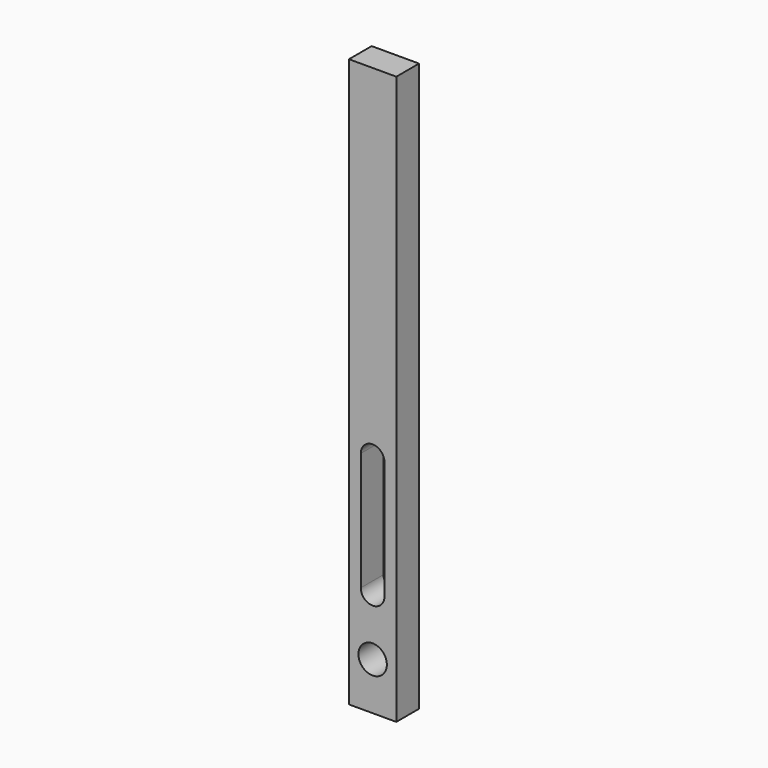
from build123d import *

# Parameters (mm, degrees)
F0_R     = 3
F1_DEPTH = 6


with BuildPart() as f1:
    # F0 (on Front) → F1 (new body)
    with BuildSketch(Plane.XZ):
        Polygon((-5, 0), (0, 0), (5, 0), (5, 120), (0, 120), (-5, 120), align=None)
        with Locations((0, 10)):
            Circle(F0_R, mode=Mode.SUBTRACT)
        with BuildLine():
            ThreePointArc((-2.5, 47.5), (0, 50), (2.5, 47.5))
            Line((2.5, 47.5), (2.5, 22.5))
            ThreePointArc((2.5, 22.5), (0, 20), (-2.5, 22.5))
            Line((-2.5, 22.5), (-2.5, 47.5))
        make_face(mode=Mode.SUBTRACT)
    extrude(amount=F1_DEPTH)


solid = f1.part
